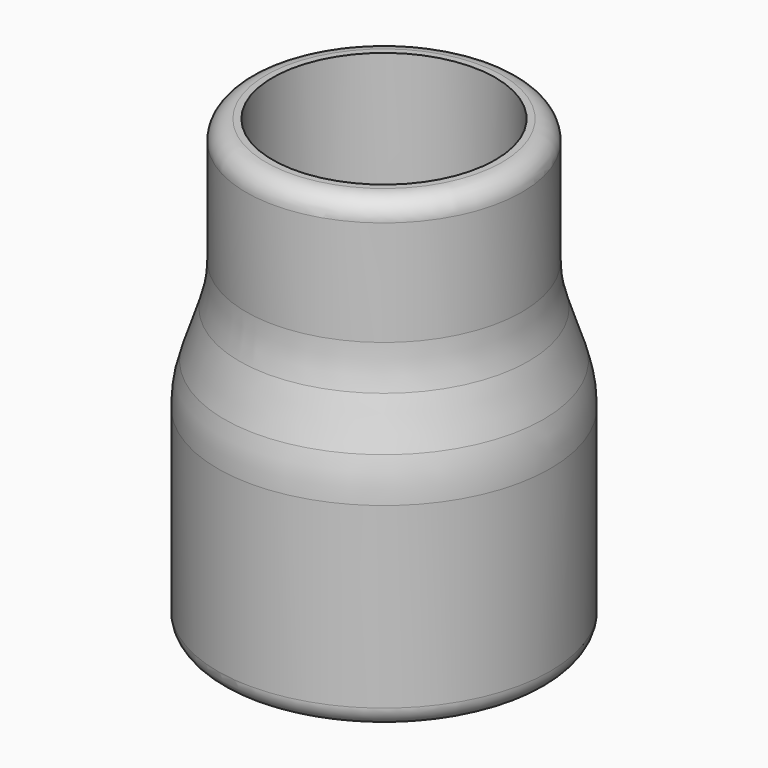
from build123d import *

# Parameters (mm, degrees)
F2_R = 3


with BuildPart() as f1:
    # F0 (on Front) → F1 (revolve)
    with BuildSketch(Plane.XZ):
        with BuildLine():
            Line((20.75, 15.274987), (20.75, 34.088731))
            Line((20.75, 34.088731), (16.75, 34.088731))
            Line((16.75, 34.088731), (16.75, 15.274987))
            ThreePointArc((16.75, 15.274987), (16.999074, 12.128412), (17.740093, 9.06021))
            Line((17.740093, 9.06021), (20.009907, 2.117252))
            ThreePointArc((20.009907, 2.117252), (20.750926, -0.95095), (21, -4.097525))
            Line((21, -4.097525), (21, -33.911269))
            Line((21, -33.911269), (25, -33.911269))
            Line((25, -33.911269), (25, -4.097525))
            ThreePointArc((25, -4.097525), (24.750926, -0.95095), (24.009907, 2.117252))
            Line((24.009907, 2.117252), (21.740093, 9.06021))
            ThreePointArc((21.740093, 9.06021), (20.999074, 12.128412), (20.75, 15.274987))
        make_face()
    revolve(axis=Axis((0, 0, 0.088731), (0, 0, -1)))

    # F2
    f2_edges = [f1.edges().sort_by_distance(p)[0] for p in [
        (-20.75, 0, 34.088731),
        (-25, 0, -33.911269),
    ]]
    fillet(f2_edges, radius=F2_R)


solid = f1.part
